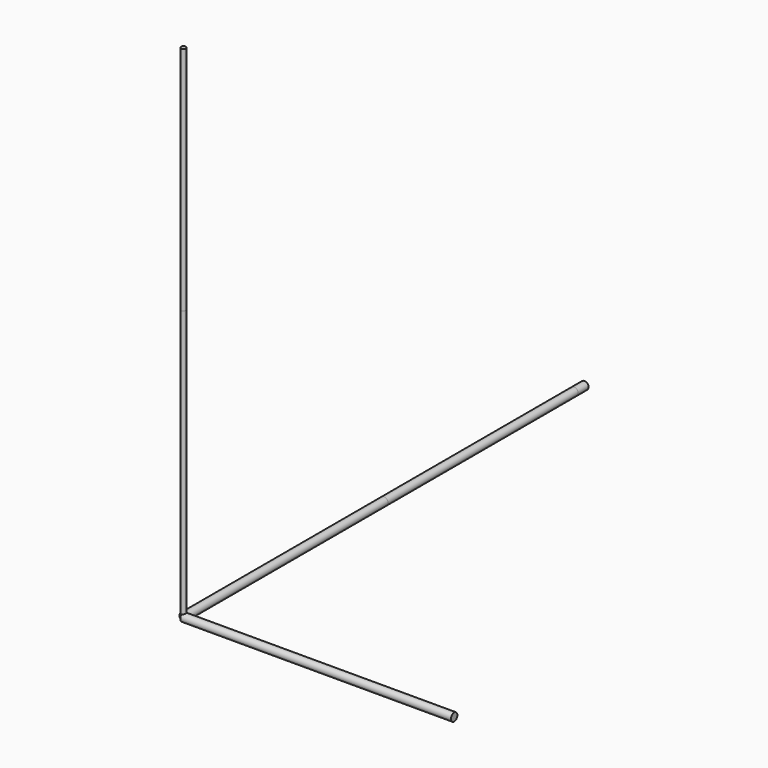
from build123d import *

# Parameters (mm, degrees)
F0_R     = 4
F0_R_2   = 3
F1_DEPTH = 500
F2_DEPTH = 487
F3_R     = 2.5
F4_DEPTH = 500
F5_DEPTH = 250
F6_R     = 4
F7_DEPTH = 270
F8_DEPTH = 270


with BuildPart() as f1:
    # F0 (on Front) → F1 (new body)
    with BuildSketch(Plane.XZ):
        Circle(F0_R)
        Circle(F0_R_2, mode=Mode.SUBTRACT)
    extrude(amount=-F1_DEPTH)


with BuildPart() as f2:
    # F0 (on Front) → F2 (new body)
    with BuildSketch(Plane.XZ):
        Circle(F0_R)
        Circle(F0_R_2, mode=Mode.SUBTRACT)
    extrude(amount=-F2_DEPTH)


with BuildPart() as f4:
    # F3 (on Top) → F4 (new body)
    with BuildSketch(Plane.XY):
        Circle(F3_R)
    extrude(amount=F4_DEPTH)


with BuildPart() as f5:
    # F0 (on Front) → F5 (new body)
    with BuildSketch(Plane.XZ):
        Circle(F0_R)
        Circle(F0_R_2, mode=Mode.SUBTRACT)
    extrude(amount=-F5_DEPTH)


with BuildPart() as f7:
    # F6 (on Right) → F7 (new body)
    with BuildSketch(Plane.YZ):
        Circle(F6_R)
    extrude(amount=F7_DEPTH)


with BuildPart() as f8:
    # F3 (on Top) → F8 (new body)
    with BuildSketch(Plane.XY):
        Circle(F3_R)
    extrude(amount=F8_DEPTH)


solid = Compound([f1.part, f2.part, f4.part, f5.part, f7.part, f8.part])
